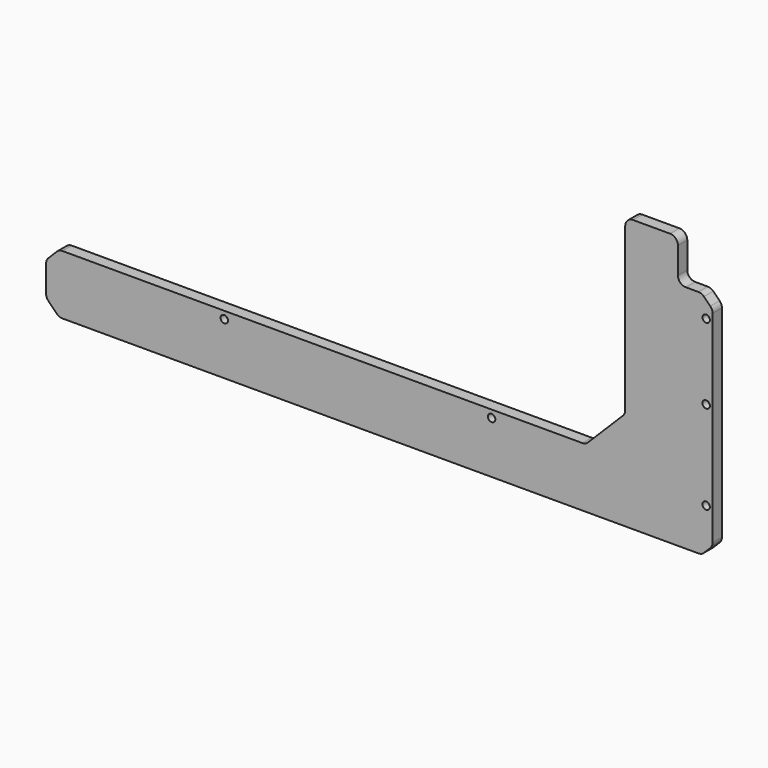
from build123d import *

# Parameters (mm, degrees)
F1_R          = 1.5
F2_DEPTH      = 2.3495
F2_DEPTH_BACK = 2.3622
F3_R          = 3.175


with BuildPart() as f2:
    # F1 (on Front) → F2 (new body, two sides)
    with BuildSketch(Plane.XZ) as f2_sk:
        Polygon((-37.3, 24), (-249.996699, 24), (-255.3, 18.696699), (-255.3, 5.303301), (-249.996699, 0), (9.580583, 0), (14, 4.419417), (14, 88.580583), (9.580583, 93), (0, 93), (0, 110), (-21.3, 110), (-21.3, 40), align=None)
        with Locations((-183.3, 21)):
            Circle(F1_R, mode=Mode.SUBTRACT)
        with Locations((-75.3, 21)):
            Circle(F1_R, mode=Mode.SUBTRACT)
        with Locations((11.4, 18)):
            Circle(F1_R, mode=Mode.SUBTRACT)
        with Locations((11.4, 54)):
            Circle(F1_R, mode=Mode.SUBTRACT)
        with Locations((11.4, 84.5)):
            Circle(F1_R, mode=Mode.SUBTRACT)
    extrude(amount=F2_DEPTH)
    extrude(f2_sk.sketch, amount=-F2_DEPTH_BACK)

    # F3
    f3_edges = [f2.edges().sort_by_distance(p)[0] for p in [
        (-249.996699, 0.00635, 24),
        (-255.3, 0.00635, 18.696699),
        (-255.3, 0.00635, 5.303301),
        (-249.996699, 0.00635, 0),
        (9.580583, 0.00635, 0),
        (14, 0.00635, 4.419417),
        (14, 0.00635, 88.580583),
        (9.580583, 0.00635, 93),
        (0, 0.00635, 93),
        (0, 0.00635, 110),
        (-21.3, 0.00635, 110),
        (-21.3, 0.00635, 40),
        (-37.3, 0.00635, 24),
    ]]
    fillet(f3_edges, radius=F3_R)


solid = f2.part
